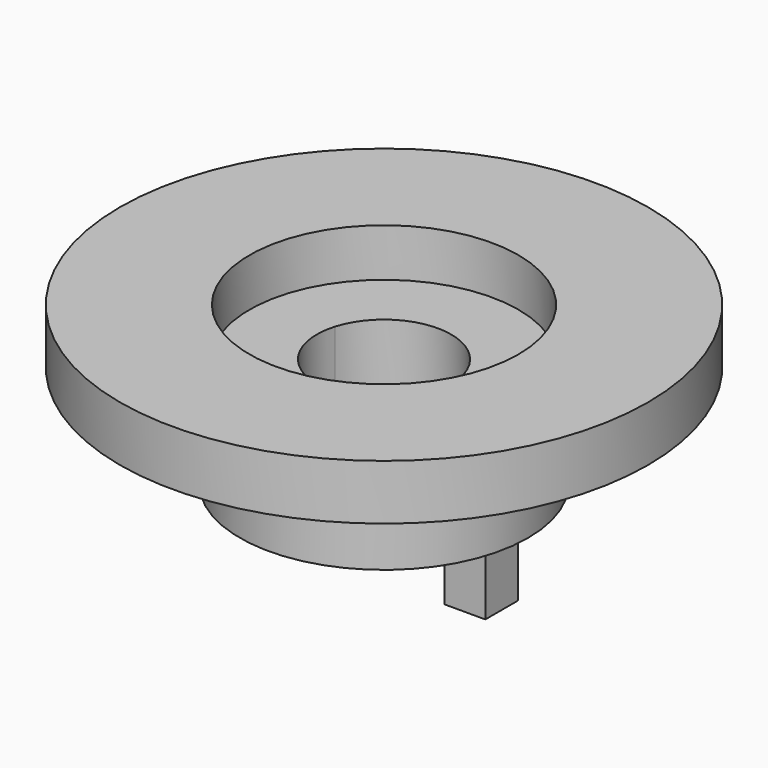
from build123d import *

# Parameters (mm, degrees)
SKETCH004_W     = 1.7
SKETCH004_H     = 1.7
PAD001_DEPTH    = 3
SKETCH_R        = 11
PAD_DEPTH       = 6.6
SKETCH001_R     = 11
SKETCH001_R_2   = 6
POCKET_DEPTH    = 4.3
POCKET001_DEPTH = 6.601
SKETCH003_W     = 2
SKETCH003_H     = 2
POCKET002_DEPTH = 4.3
SKETCH005_R     = 2.8
POCKET003_DEPTH = 4.6
SKETCH006_R     = 5.6
POCKET004_DEPTH = 2


with BuildPart() as pad001:
    # Sketch004 → Pad001 (new body)
    with BuildSketch(Plane(origin=(0, 0, 0), x_dir=(1, 0, 0), z_dir=(0, 0, -1))):
        with Locations((-4.05, 0)):
            Rectangle(SKETCH004_W, SKETCH004_H)
        with Locations((4.05, 0)):
            Rectangle(SKETCH004_W, SKETCH004_H)
    extrude(amount=PAD001_DEPTH)


with BuildPart() as pocket004:
    # Sketch → Pad (new body)
    with BuildSketch(Plane.XY):
        Circle(SKETCH_R)
    extrude(amount=PAD_DEPTH)

    # Sketch001 → Pocket (cut)
    with BuildSketch(Plane(origin=(0, 0, 0), x_dir=(1, 0, 0), z_dir=(0, 0, -1))):
        Circle(SKETCH001_R)
        Circle(SKETCH001_R_2, mode=Mode.SUBTRACT)
    extrude(amount=-POCKET_DEPTH, mode=Mode.SUBTRACT)

    # Sketch002 → Pocket001 (cut, through all)
    with BuildSketch(Plane.XY.offset(6.6)):
        with BuildLine():
            Line((-2.683282, 0.8), (2.683282, 0.8))
            ThreePointArc((-2.683282, 0.8), (0, -2.8), (2.683282, 0.8))
        make_face()
    extrude(amount=-POCKET001_DEPTH, mode=Mode.SUBTRACT)

    # Sketch003 → Pocket002 (cut)
    with BuildSketch(Plane(origin=(0, 0, 0), x_dir=(1, 0, 0), z_dir=(0, 0, -1))):
        with Locations((0, 4.5)):
            Rectangle(SKETCH003_W, SKETCH003_H)
        with Locations((0, -4.5)):
            Rectangle(SKETCH003_W, SKETCH003_H)
    extrude(amount=-POCKET002_DEPTH, mode=Mode.SUBTRACT)

    # Sketch005 → Pocket003 (cut)
    with BuildSketch(Plane.XY.offset(6.6)):
        Circle(SKETCH005_R)
    extrude(amount=-POCKET003_DEPTH, mode=Mode.SUBTRACT)

    # Sketch006 → Pocket004 (cut)
    with BuildSketch(Plane.XY.offset(6.6)):
        Circle(SKETCH006_R)
    extrude(amount=-POCKET004_DEPTH, mode=Mode.SUBTRACT)


solid = Compound([pad001.part, pocket004.part])
